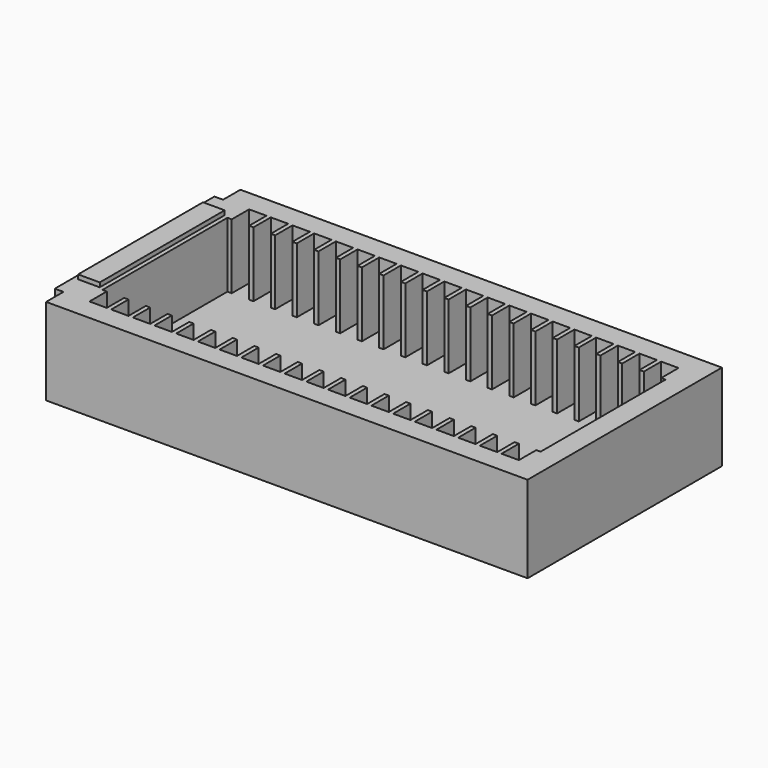
from build123d import *

# Parameters (mm, degrees)
F2_W     = 101
F2_H     = 5
F3_DEPTH = 23
F4_W     = 5
F4_H     = 20
F5_DEPTH = 55.5
F1_W     = 1
F1_H     = 5
F6_DEPTH = 17.5
F7_W     = 5
F7_H     = 36
F8_DEPTH = 18.5


with BuildPart() as f3:
    # F2 (on Front) → F3 (new body, symmetric)
    with BuildSketch(Plane.XZ):
        Rectangle(F2_W, F2_H)
        Polygon((50.5, 17.5), (50.5, 2.5), (50.5, -2.5), (55.5, -2.5), (55.5, 17.5), align=None)
        Polygon((-50.5, -2.5), (-50.5, 2.5), (-50.5, 17.5), (-57.5, 17.5), (-57.5, -2.5), align=None)
    extrude(amount=F3_DEPTH, both=True)

    # F4 (on Right) → F5 (join, symmetric)
    with BuildSketch(Plane.YZ):
        with Locations((-25.5, 7.5)):
            Rectangle(F4_W, F4_H)
        with Locations((25.5, 7.5)):
            Rectangle(F4_W, F4_H)
    extrude(amount=F5_DEPTH, both=True)

    # F1 (on Top) → F6 (join)
    with BuildSketch(Plane.XY):
        with Locations((-50, 20.5)):
            Rectangle(F1_W, F1_H)
        with Locations((-45, 20.5)):
            Rectangle(F1_W, F1_H)
        with Locations((-40, 20.5)):
            Rectangle(F1_W, F1_H)
        with Locations((-35, 20.5)):
            Rectangle(F1_W, F1_H)
        with Locations((-30, 20.5)):
            Rectangle(F1_W, F1_H)
        with Locations((-25, 20.5)):
            Rectangle(F1_W, F1_H)
        with Locations((-20, 20.5)):
            Rectangle(F1_W, F1_H)
        with Locations((-15, 20.5)):
            Rectangle(F1_W, F1_H)
        with Locations((-10, 20.5)):
            Rectangle(F1_W, F1_H)
        with Locations((-5, 20.5)):
            Rectangle(F1_W, F1_H)
        with Locations((0, 20.5)):
            Rectangle(F1_W, F1_H)
        with Locations((5, 20.5)):
            Rectangle(F1_W, F1_H)
        with Locations((10, 20.5)):
            Rectangle(F1_W, F1_H)
        with Locations((15, 20.5)):
            Rectangle(F1_W, F1_H)
        with Locations((20, 20.5)):
            Rectangle(F1_W, F1_H)
        with Locations((25, 20.5)):
            Rectangle(F1_W, F1_H)
        with Locations((30, 20.5)):
            Rectangle(F1_W, F1_H)
        with Locations((35, 20.5)):
            Rectangle(F1_W, F1_H)
        with Locations((40, 20.5)):
            Rectangle(F1_W, F1_H)
        with Locations((45, 20.5)):
            Rectangle(F1_W, F1_H)
        with Locations((50, 20.5)):
            Rectangle(F1_W, F1_H)
        with Locations((-50, -20.5)):
            Rectangle(F1_W, F1_H)
        with Locations((50, -20.5)):
            Rectangle(F1_W, F1_H)
        with Locations((-45, -20.5)):
            Rectangle(F1_W, F1_H)
        with Locations((0, -20.5)):
            Rectangle(F1_W, F1_H)
        with Locations((20, -20.5)):
            Rectangle(F1_W, F1_H)
        with Locations((40, -20.5)):
            Rectangle(F1_W, F1_H)
        with Locations((-20, -20.5)):
            Rectangle(F1_W, F1_H)
        with Locations((30, -20.5)):
            Rectangle(F1_W, F1_H)
        with Locations((-35, -20.5)):
            Rectangle(F1_W, F1_H)
        with Locations((-30, -20.5)):
            Rectangle(F1_W, F1_H)
        with Locations((-10, -20.5)):
            Rectangle(F1_W, F1_H)
        with Locations((10, -20.5)):
            Rectangle(F1_W, F1_H)
        with Locations((-40, -20.5)):
            Rectangle(F1_W, F1_H)
        with Locations((35, -20.5)):
            Rectangle(F1_W, F1_H)
        with Locations((-25, -20.5)):
            Rectangle(F1_W, F1_H)
        with Locations((-5, -20.5)):
            Rectangle(F1_W, F1_H)
        with Locations((15, -20.5)):
            Rectangle(F1_W, F1_H)
        with Locations((5, -20.5)):
            Rectangle(F1_W, F1_H)
        with Locations((25, -20.5)):
            Rectangle(F1_W, F1_H)
        with Locations((45, -20.5)):
            Rectangle(F1_W, F1_H)
        with Locations((-15, -20.5)):
            Rectangle(F1_W, F1_H)
    extrude(amount=F6_DEPTH)

    # F7 (on Top) → F8 (join)
    with BuildSketch(Plane.XY):
        with Locations((-54, 0.467316)):
            Rectangle(F7_W, F7_H)
    extrude(amount=F8_DEPTH)


solid = f3.part
